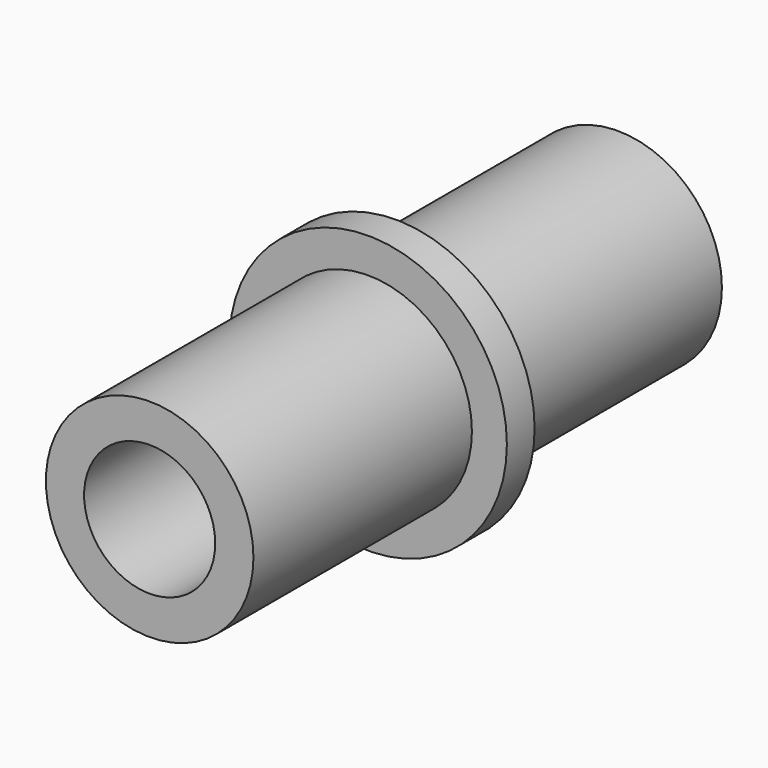
from build123d import *

# Parameters (mm, degrees)
F0_R     = 9.525
F0_R_2   = 6
F1_DEPTH = 25.4
F2_R     = 12.7
F2_R_2   = 9.525
F2_R_3   = 6
F3_DEPTH = 3.175
F4_R     = 9.5
F4_R_2   = 6
F5_DEPTH = 25


with BuildPart() as f1:
    # F0 (on Front) → F1 (new body)
    with BuildSketch(Plane.XZ):
        Circle(F0_R)
        Circle(F0_R_2, mode=Mode.SUBTRACT)
    extrude(amount=F1_DEPTH)

    # F2 (on face) → F3 (join)
    with BuildSketch(Plane.XZ.offset(25.4)):
        Circle(F2_R)
        Circle(F2_R_2, mode=Mode.SUBTRACT)
        Circle(F2_R_2)
        Circle(F2_R_3, mode=Mode.SUBTRACT)
    extrude(amount=F3_DEPTH)

    # F4 (on face) → F5 (join)
    with BuildSketch(Plane.XZ.offset(28.575)):
        Circle(F4_R)
        Circle(F4_R_2, mode=Mode.SUBTRACT)
    extrude(amount=F5_DEPTH)


solid = f1.part
